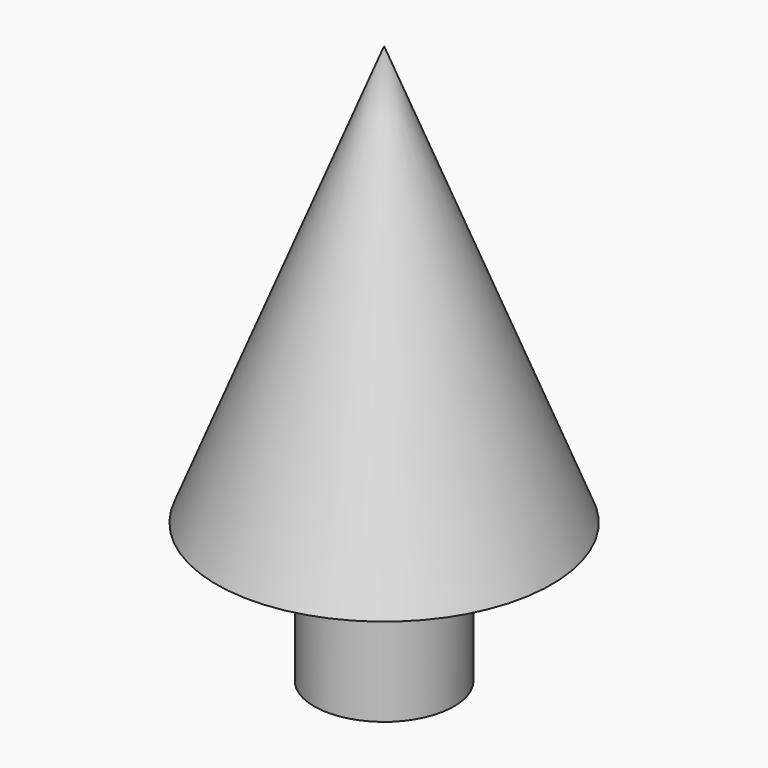
from build123d import *

# Parameters (mm, degrees)
F0_W     = 3.175
F0_H     = 6.3246
F3_D     = 2.2606
F3_DEPTH = 14.605
F3_TIP   = 0.6791527577


with BuildPart() as f1:
    # F0 (on Front) → F1 (revolve)
    with BuildSketch(Plane.XZ):
        with Locations((-1.5875, -3.1623)):
            Rectangle(F0_W, F0_H)
        Polygon((-3.175, 0), (0, 0), (0, 19.0637558699), (-7.62, 0), align=None)
    revolve(axis=Axis((0, 0, 9.5318779349), (0, 0, 1)))

    # F3
    with Locations(Plane(origin=(0, 0, -6.3246), x_dir=(1, 0, 0), z_dir=(0, 0, -1))):
        with Locations((0, 0)):
            Hole(F3_D / 2, depth=F3_DEPTH)
            with Locations((0, 0, -(F3_DEPTH + F3_TIP / 2))):  # 118° drill point
                Cone(0, F3_D / 2, F3_TIP, mode=Mode.SUBTRACT)


solid = f1.part
